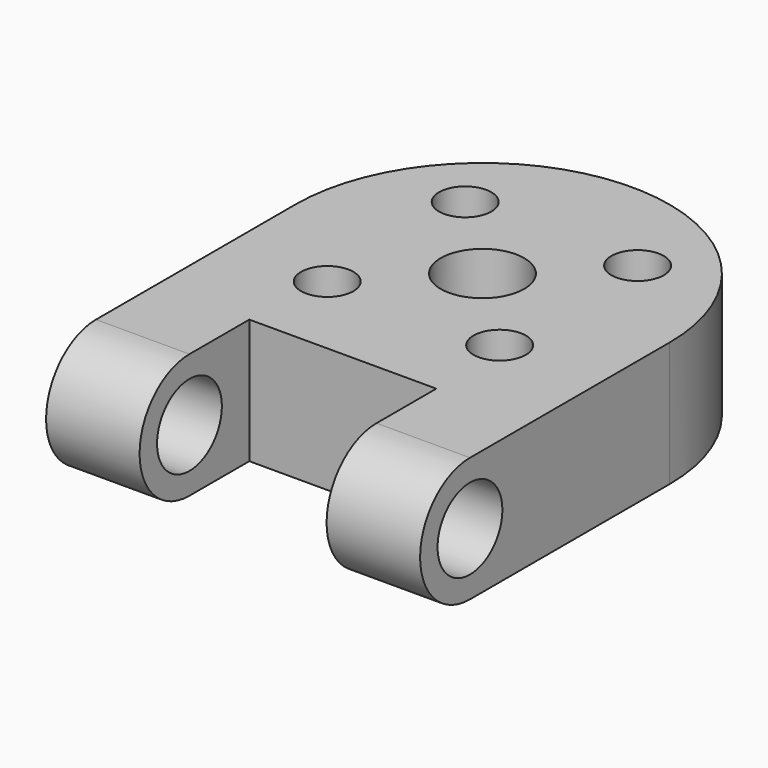
from build123d import *

# Parameters (mm, degrees)
SKETCH002_R       = 3.35
SKETCH002_R_2     = 2.1
PAD002_DEPTH      = 10
SKETCH003_R       = 3.25
POCKET_DEPTH      = 15.001
POCKET_DEPTH_BACK = 15.001
SKETCH004_W       = 11
SKETCH004_H       = 11
POCKET001_DEPTH   = 7.5


with BuildPart() as part:
    # Sketch002 → Pad002 (new body)
    with BuildSketch(Plane.XY):
        with BuildLine():
            ThreePointArc((15, 0), (0, 15), (-15, 0))
            Line((-15, 0), (-15, -25))
            Line((-15, -25), (15, -25))
            Line((15, -25), (15, 0))
        make_face()
        Circle(SKETCH002_R, mode=Mode.SUBTRACT)
        with Locations((-6.914797, 6.914797)):
            Circle(SKETCH002_R_2, mode=Mode.SUBTRACT)
        with Locations((6.914797, 6.914797)):
            Circle(SKETCH002_R_2, mode=Mode.SUBTRACT)
        with Locations((6.914797, -6.914797)):
            Circle(SKETCH002_R_2, mode=Mode.SUBTRACT)
        with Locations((-6.914797, -6.914797)):
            Circle(SKETCH002_R_2, mode=Mode.SUBTRACT)
    extrude(amount=PAD002_DEPTH)

    # Sketch003 → Pocket (cut, two sides)
    with BuildSketch(Plane.YZ) as pocket_sk:
        with Locations((-20, 5)):
            Circle(SKETCH003_R)
        with BuildLine():
            ThreePointArc((-20, 10), (-25, 4.999992), (-19.999984, 0))
            Line((-26, 0), (-19.999984, 0))
            Line((-26, 10), (-26, 0))
            Line((-20, 10), (-26, 10))
        make_face()
    extrude(amount=-POCKET_DEPTH, mode=Mode.SUBTRACT)
    extrude(pocket_sk.sketch, amount=POCKET_DEPTH_BACK, mode=Mode.SUBTRACT)

    # Sketch004 → Pocket001 (cut, symmetric)
    with BuildSketch(Plane.YZ):
        with Locations((-19.5, 5.5)):
            Rectangle(SKETCH004_W, SKETCH004_H)
    extrude(amount=POCKET001_DEPTH, both=True, mode=Mode.SUBTRACT)


solid = part.part
